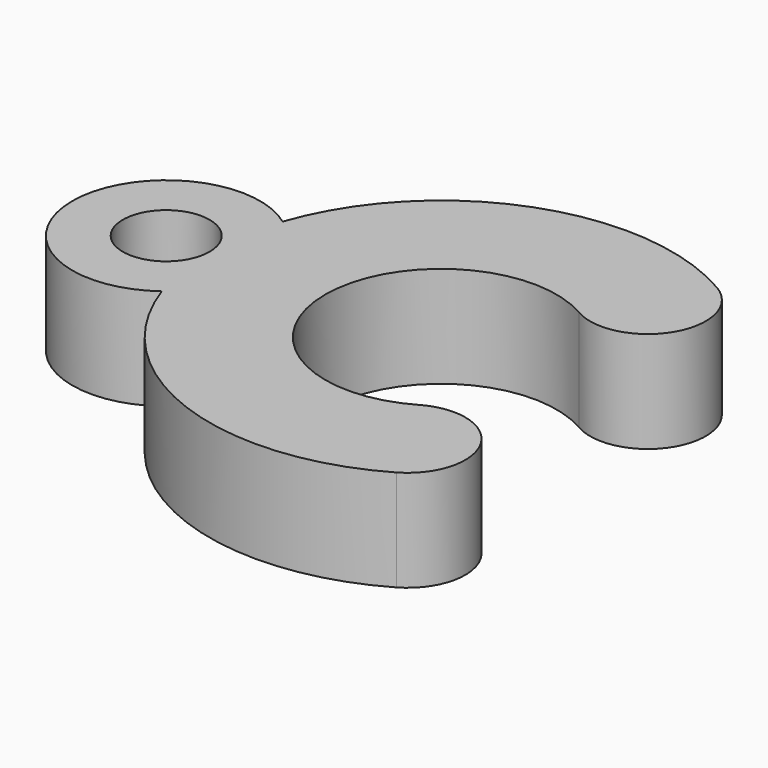
from build123d import *

# Parameters (mm, degrees)
F0_R     = 1.5
F1_DEPTH = 3.5


with BuildPart() as f1:
    # F0 (on Top) → F1 (new body)
    with BuildSketch(Plane.XY):
        with BuildLine():
            ThreePointArc((4, 6.928203), (-2.79929, 7.494263), (-7.5625, 2.609328))
            ThreePointArc((-7.5625, 2.609328), (-12.75, 0), (-7.5625, -2.609328))
            ThreePointArc((-7.5625, -2.609328), (-2.79929, -7.494263), (4, -6.928203))
            ThreePointArc((4, -6.928203), (4.732051, -4.196152), (2, -3.464102))
            ThreePointArc((2, -3.464102), (-4, 0), (2, 3.464102))
            ThreePointArc((2, 3.464102), (4.732051, 4.196152), (4, 6.928203))
        make_face()
        with Locations((-9.5, 0)):
            Circle(F0_R, mode=Mode.SUBTRACT)
    extrude(amount=F1_DEPTH)


solid = f1.part
